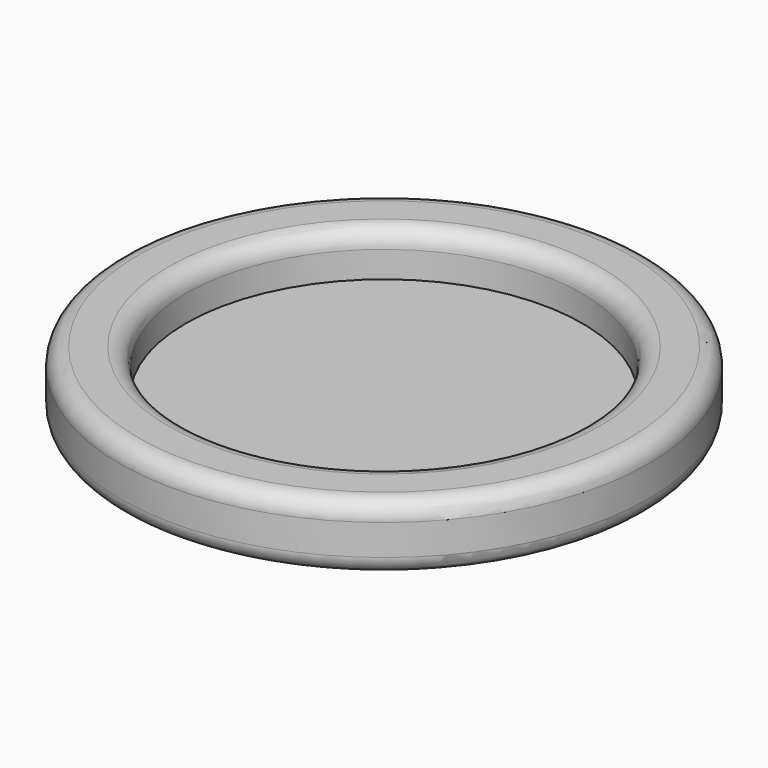
from build123d import *

# Parameters (mm, degrees)
F0_R     = 76.2
F1_DEPTH = 19.05
F2_R     = 57.205145
F3_DEPTH = 12.7
F4_R     = 5.08
F5_R     = 5.08


with BuildPart() as f1:
    # F0 (on Top) → F1 (new body)
    with BuildSketch(Plane.XY):
        Circle(F0_R)
    extrude(amount=F1_DEPTH)

    # F2 (on face) → F3 (cut)
    with BuildSketch(Plane.XY.offset(19.05)):
        Circle(F2_R)
    extrude(amount=-F3_DEPTH, mode=Mode.SUBTRACT)

    # F4
    f4_edges = [f1.edges().sort_by_distance(p)[0] for p in [
        (-57.205145, 0, 19.05),
        (-76.2, 0, 19.05),
    ]]
    fillet(f4_edges, radius=F4_R)

    # F5
    f5_edges = [f1.edges().sort_by_distance(p)[0] for p in [
        (-76.2, 0, 0),
    ]]
    fillet(f5_edges, radius=F5_R)


solid = f1.part
